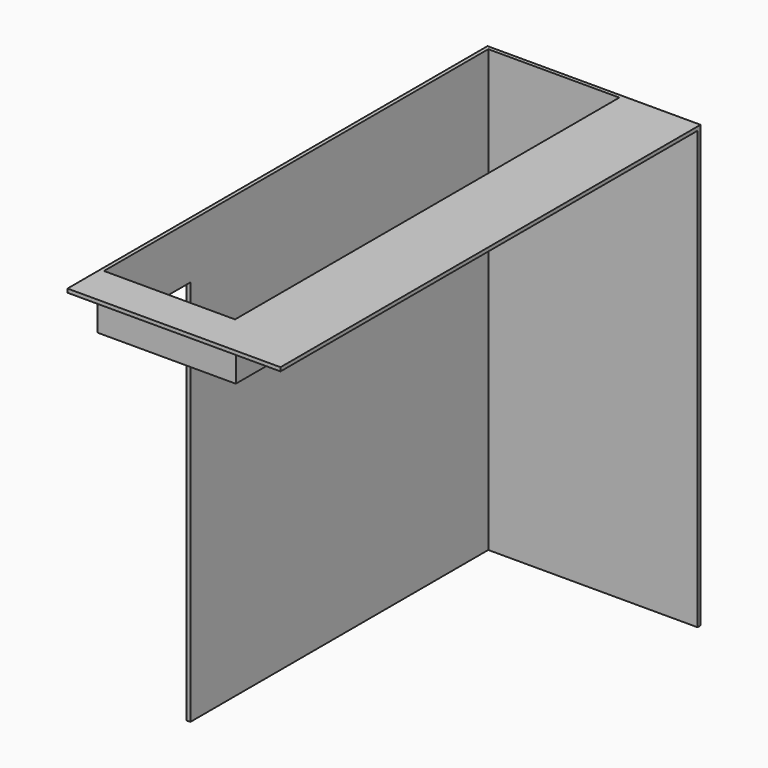
from build123d import *

# Parameters (mm, degrees)
F3_W      = 3225
F3_H      = 362
F4_DEPTH  = 25
F5_W      = 905
F5_H      = 362
F6_DEPTH  = 25
F8_DEPTH  = 25
F9_W      = 1430
F9_H      = 2960
F10_DEPTH = 25
F11_W     = 500
F11_H     = 25
F12_DEPTH = 25


with BuildPart() as f4:
    # F3 (on offset) → F4 (new body)
    with BuildSketch(Plane.YZ.offset(880)):
        with Locations((-1612.5, 2779)):
            Rectangle(F3_W, F3_H)
    extrude(amount=F4_DEPTH)

    # F5 (on offset) → F6 (join)
    with BuildSketch(Plane.XZ.offset(3225)):
        with Locations((452.5, 2779)):
            Rectangle(F5_W, F5_H)
    extrude(amount=F6_DEPTH)

    # F7 (on Right) → F8 (join)
    with BuildSketch(Plane.YZ):
        Polygon((-2500, 0), (0, 0), (0, 2960), (-3250, 2960), (-3250, 2598), (-2500, 2598), align=None)
    extrude(amount=-F8_DEPTH)

    # F9 (on Front) → F10 (join)
    with BuildSketch(Plane.XZ):
        with Locations((690, 1480)):
            Rectangle(F9_W, F9_H)
    extrude(amount=-F10_DEPTH)

    # F11 (on face) → F12 (join)
    with BuildSketch(Plane.XY.offset(2960)):
        with Locations((1155, 12.5)):
            Rectangle(F11_W, F11_H)
        Polygon((1405, 0), (905, 0), (905, -3250), (-25, -3250), (-25, -3500), (1405, -3500), align=None)
    extrude(amount=-F12_DEPTH)


solid = f4.part
